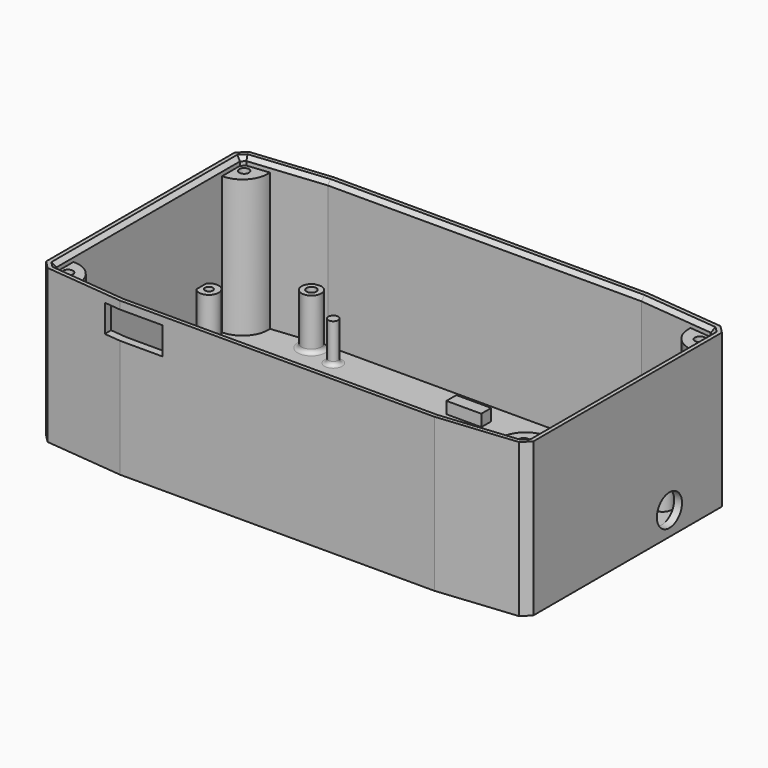
from build123d import *

# Parameters (mm, degrees)
PAD006_DEPTH    = 39
THICKNESS_T     = -2
SKETCH009_R     = 1.25
PAD007_DEPTH    = 35
SKETCH010_R     = 2.5
SKETCH010_R_2   = 1.25
PAD008_DEPTH    = 10
SKETCH012_R     = 4
POCKET_DEPTH    = 5
SKETCH013_W     = 20
SKETCH013_H     = 1
SKETCH013_W_2   = 15
POCKET001_DEPTH = 2.5
SKETCH014_W     = 15
SKETCH014_H     = 7
POCKET002_DEPTH = 5
SKETCH015_R     = 2.5
SKETCH015_R_2   = 1
SKETCH015_R_3   = 1.25
SKETCH015_W     = 8.872784
SKETCH015_H     = 3.164547
SKETCH015_W_2   = 1.506698
SKETCH015_H_2   = 5.022328
SKETCH015_W_3   = 9.738069
SKETCH015_H_3   = 1.266035
SKETCH015_W_4   = 2
SKETCH015_H_4   = 3
SKETCH015_W_5   = 6
SKETCH015_H_5   = 6
SKETCH015_W_6   = 2.47644
SKETCH015_H_6   = 2.7516
SKETCH015_W_7   = 1.671154
SKETCH015_H_7   = 5.013457
PAD010_DEPTH    = 3
SKETCH016_R     = 2.5
SKETCH016_R_2   = 1.25
SKETCH016_R_3   = 1
PAD011_DEPTH    = 13
FILLET_R        = 1
FILLET001_R     = 1
CHAMFER002_SIZE = 1


with BuildPart() as part:
    # Sketch006 → Pad006 (new body)
    with BuildSketch(Plane.XY):
        Polygon((-60, 46), (-40, 48), (40, 48), (60, 46), (62, 44), (62, -16), (60, -18), (40, -20), (-40, -20), (-60, -18), (-62, -16), (-62, 44), align=None)
    extrude(amount=-PAD006_DEPTH)

    # Thickness
    thickness_openings = [part.faces().sort_by_distance(p)[0] for p in [
        (0, 14, 0),
    ]]
    offset(amount=THICKNESS_T, openings=thickness_openings)

    # Sketch009 (on DatumPlane) → Pad007 (join)
    with BuildSketch(Plane.XY.offset(-37)):
        with BuildLine():
            ThreePointArc((-60, 37.5), (-54.879505, 39.996185), (-53.691842, 45.567528))
            Line((-60, 44), (-53.691842, 45.567528))
            Line((-60, 44), (-60, 37.5))
        make_face()
        with Locations((-58, 42)):
            Circle(SKETCH009_R, mode=Mode.SUBTRACT)
        with BuildLine():
            ThreePointArc((-53.60924, -17.463197), (-55.001833, -12.12101), (-60, -9.776528))
            Line((-60, -16.276528), (-60, -9.776528))
            Line((-53.60924, -17.463197), (-60, -16.276528))
        make_face()
        with Locations((-58, -14)):
            Circle(SKETCH009_R, mode=Mode.SUBTRACT)
        with BuildLine():
            ThreePointArc((60, -9.500017), (54.988866, -11.878324), (53.637907, -17.258167))
            Line((60.014977, -16), (53.637907, -17.258167))
            Line((60.014977, -9.499983), (60.014977, -16))
            Line((60, -9.500017), (60.014977, -9.499983))
        make_face()
        with Locations((58, -14)):
            Circle(SKETCH009_R, mode=Mode.SUBTRACT)
        with BuildLine():
            ThreePointArc((53.59017, 45.078926), (55.036986, 39.802562), (60, 37.5))
            Line((60, 44), (60, 37.5))
            Line((53.59017, 45.078926), (60, 44))
        make_face()
        with Locations((58, 42)):
            Circle(SKETCH009_R, mode=Mode.SUBTRACT)
    extrude(amount=PAD007_DEPTH)

    # Sketch010 (on DatumPlane) → Pad008 (join)
    with BuildSketch(Plane.XY.offset(-37)):
        with Locations((55, 21)):
            Circle(SKETCH010_R)
        with Locations((55, 21)):
            Circle(SKETCH010_R_2, mode=Mode.SUBTRACT)
        with Locations((55, 33.8)):
            Circle(SKETCH010_R)
        with Locations((55, 33.8)):
            Circle(SKETCH010_R_2, mode=Mode.SUBTRACT)
        with Locations((-34.5, 41)):
            Circle(SKETCH010_R_2)
        with Locations((34, 41)):
            Circle(SKETCH010_R_2)
        with Locations((34, 16)):
            Circle(SKETCH010_R_2)
        with Locations((40, -14)):
            Circle(SKETCH010_R_2)
    extrude(amount=PAD008_DEPTH)

    # Sketch012 (on DatumPlane) → Pocket (cut)
    with BuildSketch(Plane.YZ.offset(62)):
        with Locations((27.307687, -33)):
            Circle(SKETCH012_R)
    extrude(amount=-POCKET_DEPTH, mode=Mode.SUBTRACT)

    # Sketch013 (on DatumPlane) → Pocket001 (cut, symmetric)
    with BuildSketch(Plane.XY.offset(-37)):
        with Locations((-14, 33.5)):
            Rectangle(SKETCH013_W, SKETCH013_H)
        with Locations((11, 33.5)):
            Rectangle(SKETCH013_W, SKETCH013_H)
        with Locations((36, 33.5)):
            Rectangle(SKETCH013_W, SKETCH013_H)
        with Locations((36, 26.5)):
            Rectangle(SKETCH013_W, SKETCH013_H)
        with Locations((-14, 26.5)):
            Rectangle(SKETCH013_W, SKETCH013_H)
        with Locations((11, 26.5)):
            Rectangle(SKETCH013_W, SKETCH013_H)
        with Locations((-14, 19.5)):
            Rectangle(SKETCH013_W, SKETCH013_H)
        with Locations((11, 19.5)):
            Rectangle(SKETCH013_W, SKETCH013_H)
        with Locations((36, 19.5)):
            Rectangle(SKETCH013_W, SKETCH013_H)
        with Locations((36, 12.5)):
            Rectangle(SKETCH013_W, SKETCH013_H)
        with Locations((-14, 12.5)):
            Rectangle(SKETCH013_W, SKETCH013_H)
        with Locations((11, 12.5)):
            Rectangle(SKETCH013_W, SKETCH013_H)
        with Locations((-14, 4.5)):
            Rectangle(SKETCH013_W, SKETCH013_H)
        with Locations((11, 4.5)):
            Rectangle(SKETCH013_W, SKETCH013_H)
        with Locations((36, 4.5)):
            Rectangle(SKETCH013_W, SKETCH013_H)
        with Locations((36, -4.5)):
            Rectangle(SKETCH013_W, SKETCH013_H)
        with Locations((-14, -4.5)):
            Rectangle(SKETCH013_W, SKETCH013_H)
        with Locations((11, -4.5)):
            Rectangle(SKETCH013_W, SKETCH013_H)
        with Locations((-36.5, 33.5)):
            Rectangle(SKETCH013_W_2, SKETCH013_H)
        with Locations((-36.5, 26.5)):
            Rectangle(SKETCH013_W_2, SKETCH013_H)
        with Locations((-36.5, 19.5)):
            Rectangle(SKETCH013_W_2, SKETCH013_H)
        with Locations((-36.5, 12.5)):
            Rectangle(SKETCH013_W_2, SKETCH013_H)
        with Locations((-36.5, 4.5)):
            Rectangle(SKETCH013_W_2, SKETCH013_H)
        with Locations((-36.5, -4.5)):
            Rectangle(SKETCH013_W_2, SKETCH013_H)
    extrude(amount=POCKET001_DEPTH, both=True, mode=Mode.SUBTRACT)

    # Sketch014 (on DatumPlane) → Pocket002 (cut)
    with BuildSketch(Plane.XZ.offset(20)):
        with Locations((-36.7, -5.5)):
            Rectangle(SKETCH014_W, SKETCH014_H)
    extrude(amount=-POCKET002_DEPTH, mode=Mode.SUBTRACT)

    # Sketch015 (on DatumPlane) → Pad010 (join)
    with BuildSketch(Plane.XY.offset(-37)):
        with Locations((40, -8.5)):
            Circle(SKETCH015_R)
        with Locations((40, -8.5)):
            Circle(SKETCH015_R_2, mode=Mode.SUBTRACT)
        with Locations((-34.5, 16)):
            Circle(SKETCH015_R)
        with Locations((-34.5, 16)):
            Circle(SKETCH015_R_3, mode=Mode.SUBTRACT)
        with Locations((1.258344, 39.417727)):
            Rectangle(SKETCH015_W, SKETCH015_H)
        with Locations((-26.782997, 26.116684)):
            Rectangle(SKETCH015_W_2, SKETCH015_H_2)
        with Locations((0.602816, 16.69459)):
            Rectangle(SKETCH015_W_3, SKETCH015_H_3)
        with Locations((17.301262, 30)):
            Rectangle(SKETCH015_W_4, SKETCH015_H_4)
        with Locations((17.301262, 23)):
            Rectangle(SKETCH015_W_4, SKETCH015_H_4)
        with Locations((16, -10.364637)):
            Rectangle(SKETCH015_W_5, SKETCH015_H_5)
        with Locations((15.913283, -10.494197)):
            Rectangle(SKETCH015_W_6, SKETCH015_H_6, mode=Mode.SUBTRACT)
        with Locations((23.591883, 5.073268)):
            Rectangle(SKETCH015_W_7, SKETCH015_H_7)
    extrude(amount=PAD010_DEPTH)

    # Sketch016 (on DatumPlane) → Pad011 (join)
    with BuildSketch(Plane.XY.offset(-37)):
        with Locations((-17.928946, -0.630394)):
            Circle(SKETCH016_R)
        with Locations((-17.928946, -0.630394)):
            Circle(SKETCH016_R_2, mode=Mode.SUBTRACT)
        with Locations((-58.08279, 30.897589)):
            Circle(SKETCH016_R)
        with Locations((-58.08279, 30.897589)):
            Circle(SKETCH016_R_3, mode=Mode.SUBTRACT)
        with Locations((-41.98279, 43.397589)):
            Circle(SKETCH016_R)
        with Locations((-41.98279, 43.397589)):
            Circle(SKETCH016_R_2, mode=Mode.SUBTRACT)
        with Locations((-58.051826, -5.819082)):
            Circle(SKETCH016_R)
        with Locations((-58.051826, -5.819082)):
            Circle(SKETCH016_R_3, mode=Mode.SUBTRACT)
    extrude(amount=PAD011_DEPTH)

    # Fillet
    fillet_edges = [part.edges().sort_by_distance(p)[0] for p in [
        (-43.356009, 41.308506, -37),
        (52.5, 21, -37),
        (0.602815, 17.327608, -37),
        (32.75, 16, -37),
        (17.301262, 28.5, -37),
        (-35.75, 41, -37),
        (22.756306, 5.073268, -37),
        (-57.229275, 28.547799, -37),
    ]]
    fillet(fillet_edges, radius=FILLET_R)

    # Fillet001
    fillet001_edges = [part.edges().sort_by_distance(p)[0] for p in [
        (38.75, -14, -37),
        (-57.221295, -3.461071, -37),
        (-26.782997, 28.627848, -37),
    ]]
    fillet(fillet001_edges, radius=FILLET001_R)

    # Chamfer002
    chamfer002_edges = [part.edges().sort_by_distance(p)[0] for p in [
        (0, 46, 0),
        (60, 14, 0),
        (59.545304, 43.626268, 0),
        (-49.495429, 45.040482, 0),
        (-59.545304, 43.626268, 0),
        (-60, 14, 0),
        (-59.545304, -15.626268, 0),
        (-49.495429, -17.040482, 0),
        (0, -18, 0),
        (49.495429, -17.040482, 0),
        (59.545304, -15.626268, 0),
    ]]
    chamfer(chamfer002_edges, length=CHAMFER002_SIZE)


solid = part.part
